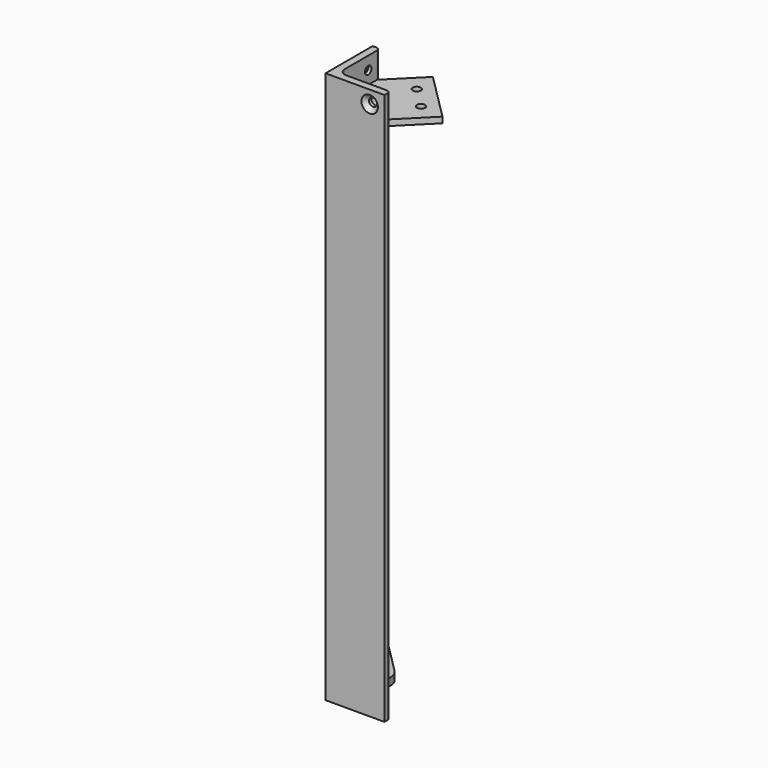
from build123d import *

# Parameters (mm, degrees)
F4_DEPTH       = 750
F6_D           = 11
F6_CSINK_D     = 22.4
F6_CSINK_ANGLE = 90
F8_D           = 11
F8_CSINK_D     = 22.4
F8_CSINK_ANGLE = 90
F12_DEPTH      = 8
F14_DEPTH      = 10
F15_R          = 20
F16_D          = 8.5
F17_D          = 11


with BuildPart() as f4:
    # F3 (on Top) → F4 (new body)
    with BuildSketch(Plane.XY):
        with BuildLine():
            Line((5, 80), (0, 80))
            Line((0, 80), (0, 0))
            Line((0, 0), (80, 0))
            Line((80, 0), (80, 5))
            ThreePointArc((80, 5), (78.5355339059, 8.5355339059), (75, 10))
            Line((75, 10), (20, 10))
            ThreePointArc((20, 10), (12.9289321881, 12.9289321881), (10, 20))
            Line((10, 20), (10, 75))
            ThreePointArc((10, 75), (8.5355339059, 78.5355339059), (5, 80))
        make_face()
    extrude(amount=F4_DEPTH)

    # F6 (through all)
    with Locations(Plane.XZ):
        with Locations((60, 732.5)):
            CounterSinkHole(F6_D / 2, F6_CSINK_D / 2, counter_sink_angle=F6_CSINK_ANGLE)

    # F8 (through all)
    with Locations(Plane(origin=(0, 0, 0), x_dir=(0, -1, 0), z_dir=(-1, 0, 0))):
        with Locations((-60, 732.5)):
            CounterSinkHole(F8_D / 2, F8_CSINK_D / 2, counter_sink_angle=F8_CSINK_ANGLE)


with BuildPart() as f12:
    # F11 (on offset) → F12 (new body)
    with BuildSketch(Plane.XY.offset(715)):
        Polygon((52.1751442127, 117.1751442127), (10, 75), (10, 25), (25, 10), (75, 10), (117.1751442127, 52.1751442127), align=None)
    extrude(amount=-F12_DEPTH)

    # F17 (through all)
    with Locations(Plane.XY.offset(715)):
        with Locations((56.3908729653, 84.6751442127), (84.6751442127, 56.3908729653)):
            Hole(F17_D / 2)


with BuildPart() as f14:
    # F13 (on offset) → F14 (new body)
    with BuildSketch(Plane(origin=(0, 0, 35), x_dir=(1, 0, 0), z_dir=(0, 0, -1))):
        Polygon((10, -25), (10, -75), (25, -75), (50, -50), (17.5, -17.5), align=None)
        Polygon((25, -10), (17.5, -17.5), (50, -50), (75, -25), (75, -10), align=None)
    extrude(amount=-F14_DEPTH)

    # F15
    f15_edges = [f14.edges().sort_by_distance(p)[0] for p in [
        (25, 75, 40),
        (75, 25, 40),
    ]]
    fillet(f15_edges, radius=F15_R)

    # F16 (through all)
    with Locations(Plane(origin=(0, 0, 35), x_dir=(1, 0, 0), z_dir=(0, 0, -1))):
        with Locations((38, -38)):
            Hole(F16_D / 2)


solid = Compound([f4.part, f12.part, f14.part])
